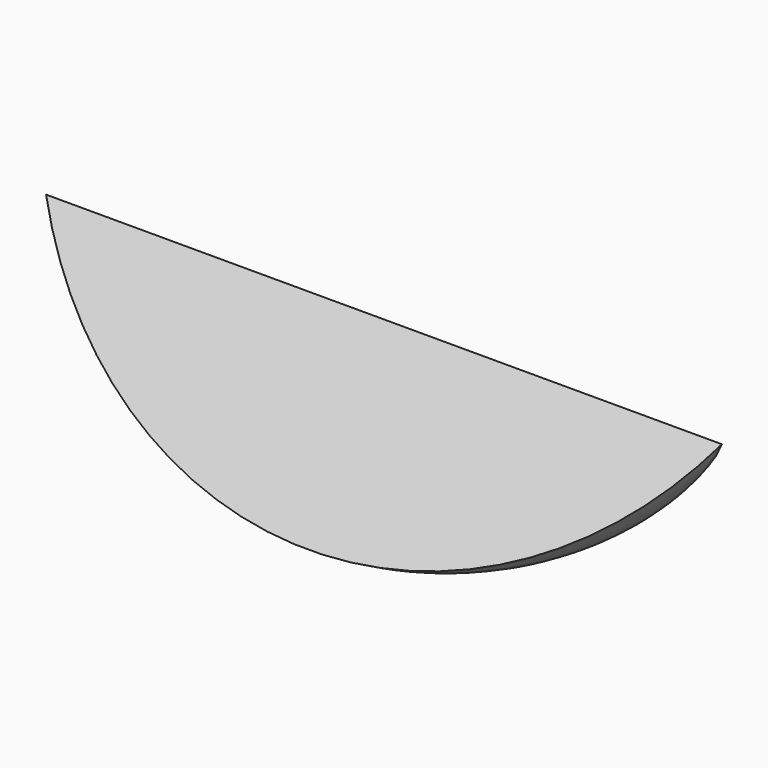
from build123d import *

# Parameters (mm, degrees)
F1_ANGLE_BACK = 30
F1_ANGLE      = 60


with BuildPart() as f1:
    # F0 (on Front) → F1 (revolve)
    with BuildSketch(Plane.XZ, mode=Mode.PRIVATE) as f1_sk:
        with BuildLine():
            Line((70.3565776348, 0), (0, 0))
            ThreePointArc((0, 0), (35.1782888174, -19.7358671916), (70.3565776348, 0))
        make_face()
    revolve(f1_sk.sketch.rotate(Axis((35.1782888174, 0, 0), (-1, 0, 0)), -F1_ANGLE_BACK), axis=Axis((35.1782888174, 0, 0), (-1, 0, 0)), revolution_arc=F1_ANGLE)


solid = f1.part
